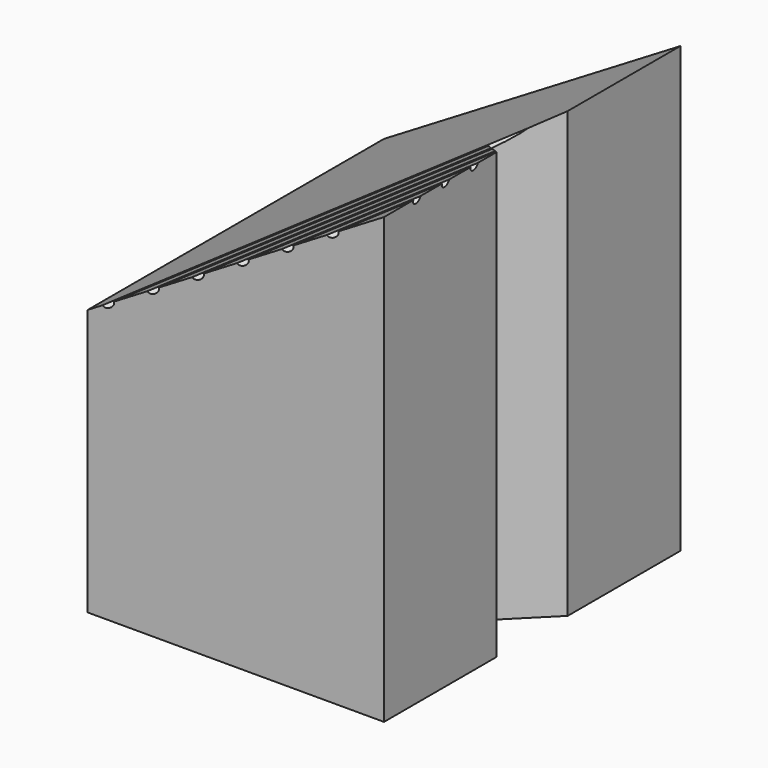
from build123d import *

# Parameters (mm, degrees)
F1_DEPTH = 25
F3_DEPTH = 30.001
F6_R     = 0.25
F7_DEPTH = 41.0214813745


with BuildPart() as f1:
    # F0 (on Front) → F1 (new body)
    with BuildSketch(Plane.XZ):
        Polygon((-20, 0), (0, 0), (0, 30), (-20, 17.9827876194), align=None)
    extrude(amount=F1_DEPTH)

    # F2 (on face) → F3 (cut, through all)
    with BuildSketch(Plane(origin=(0, 0, 0), x_dir=(1, 0, 0), z_dir=(0, 0, -1))):
        Polygon((0, 9.5), (0, 15.5), (-3, 12.5), align=None)
    extrude(amount=-F3_DEPTH, mode=Mode.SUBTRACT)

    # F6 (on line) → F7 (cut, through all)
    with BuildSketch(Plane(origin=(9.0046896383, 7.208208517, 5.4105633902), x_dir=(-0.4849657456, 0.8245581362, -0.2913968181), z_dir=(0.7067842719, 0.5657772353, 0.4246788351))):
        with Locations((-17.0687173915, 25.7150190211)):
            Circle(F6_R)
        with Locations((-19.0687173915, 25.7150190211)):
            Circle(F6_R)
        with Locations((-21.0687173915, 25.7150190211)):
            Circle(F6_R)
        with Locations((-23.0687173915, 25.7150190211)):
            Circle(F6_R)
        with Locations((-25.0687173915, 25.7150190211)):
            Circle(F6_R)
        with Locations((-27.0687173915, 25.7150190211)):
            Circle(F6_R)
    extrude(amount=-F7_DEPTH, mode=Mode.SUBTRACT)


solid = f1.part
